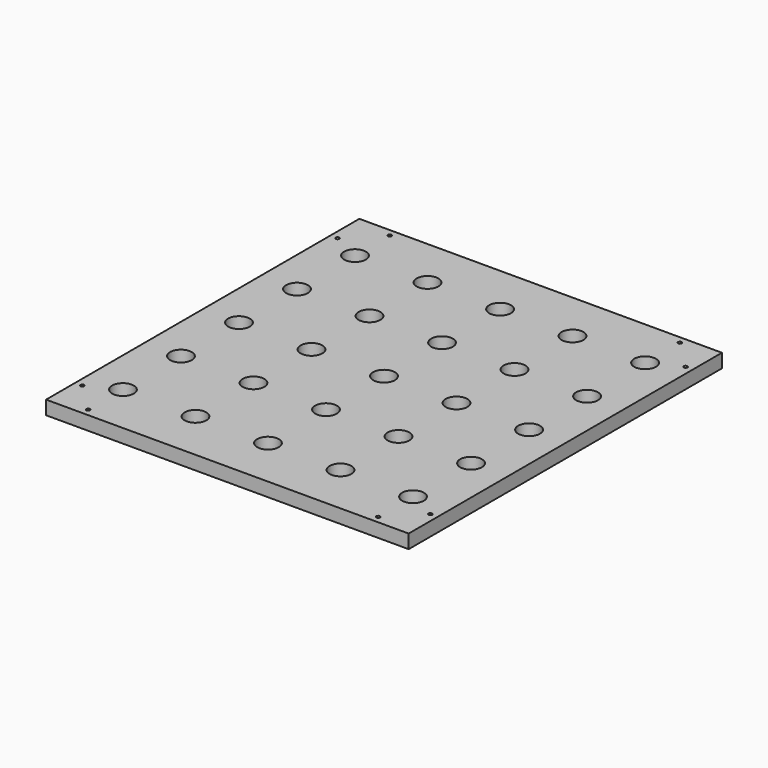
from build123d import *

# Parameters (mm, degrees)
SKETCH_W      = 500
SKETCH_H      = 540
SKETCH_R      = 15
SKETCH_R_2    = 2.5
EXTRUDE_DEPTH = 19


with BuildPart() as part:
    # Sketch → Extrude (new body)
    with BuildSketch(Plane.XY):
        with Locations((-250, 270)):
            Rectangle(SKETCH_W, SKETCH_H)
        with Locations((-450, 470)):
            Circle(SKETCH_R, mode=Mode.SUBTRACT)
        with Locations((-350, 470)):
            Circle(SKETCH_R, mode=Mode.SUBTRACT)
        with Locations((-250, 470)):
            Circle(SKETCH_R, mode=Mode.SUBTRACT)
        with Locations((-150, 470)):
            Circle(SKETCH_R, mode=Mode.SUBTRACT)
        with Locations((-50, 470)):
            Circle(SKETCH_R, mode=Mode.SUBTRACT)
        with Locations((-450, 370)):
            Circle(SKETCH_R, mode=Mode.SUBTRACT)
        with Locations((-450, 270)):
            Circle(SKETCH_R, mode=Mode.SUBTRACT)
        with Locations((-450, 170)):
            Circle(SKETCH_R, mode=Mode.SUBTRACT)
        with Locations((-450, 70)):
            Circle(SKETCH_R, mode=Mode.SUBTRACT)
        with Locations((-350, 370)):
            Circle(SKETCH_R, mode=Mode.SUBTRACT)
        with Locations((-250, 370)):
            Circle(SKETCH_R, mode=Mode.SUBTRACT)
        with Locations((-150, 370)):
            Circle(SKETCH_R, mode=Mode.SUBTRACT)
        with Locations((-50, 370)):
            Circle(SKETCH_R, mode=Mode.SUBTRACT)
        with Locations((-350, 270)):
            Circle(SKETCH_R, mode=Mode.SUBTRACT)
        with Locations((-250, 270)):
            Circle(SKETCH_R, mode=Mode.SUBTRACT)
        with Locations((-150, 270)):
            Circle(SKETCH_R, mode=Mode.SUBTRACT)
        with Locations((-50, 270)):
            Circle(SKETCH_R, mode=Mode.SUBTRACT)
        with Locations((-350, 170)):
            Circle(SKETCH_R, mode=Mode.SUBTRACT)
        with Locations((-250, 170)):
            Circle(SKETCH_R, mode=Mode.SUBTRACT)
        with Locations((-150, 170)):
            Circle(SKETCH_R, mode=Mode.SUBTRACT)
        with Locations((-50, 170)):
            Circle(SKETCH_R, mode=Mode.SUBTRACT)
        with Locations((-350, 70)):
            Circle(SKETCH_R, mode=Mode.SUBTRACT)
        with Locations((-250, 70)):
            Circle(SKETCH_R, mode=Mode.SUBTRACT)
        with Locations((-150, 70)):
            Circle(SKETCH_R, mode=Mode.SUBTRACT)
        with Locations((-50, 70)):
            Circle(SKETCH_R, mode=Mode.SUBTRACT)
        with Locations((-450, 530)):
            Circle(SKETCH_R_2, mode=Mode.SUBTRACT)
        with Locations((-490, 490)):
            Circle(SKETCH_R_2, mode=Mode.SUBTRACT)
        with Locations((-50, 530)):
            Circle(SKETCH_R_2, mode=Mode.SUBTRACT)
        with Locations((-10, 490)):
            Circle(SKETCH_R_2, mode=Mode.SUBTRACT)
        with Locations((-490, 50)):
            Circle(SKETCH_R_2, mode=Mode.SUBTRACT)
        with Locations((-450, 10)):
            Circle(SKETCH_R_2, mode=Mode.SUBTRACT)
        with Locations((-10, 50)):
            Circle(SKETCH_R_2, mode=Mode.SUBTRACT)
        with Locations((-50, 10)):
            Circle(SKETCH_R_2, mode=Mode.SUBTRACT)
    extrude(amount=EXTRUDE_DEPTH)


solid = part.part
